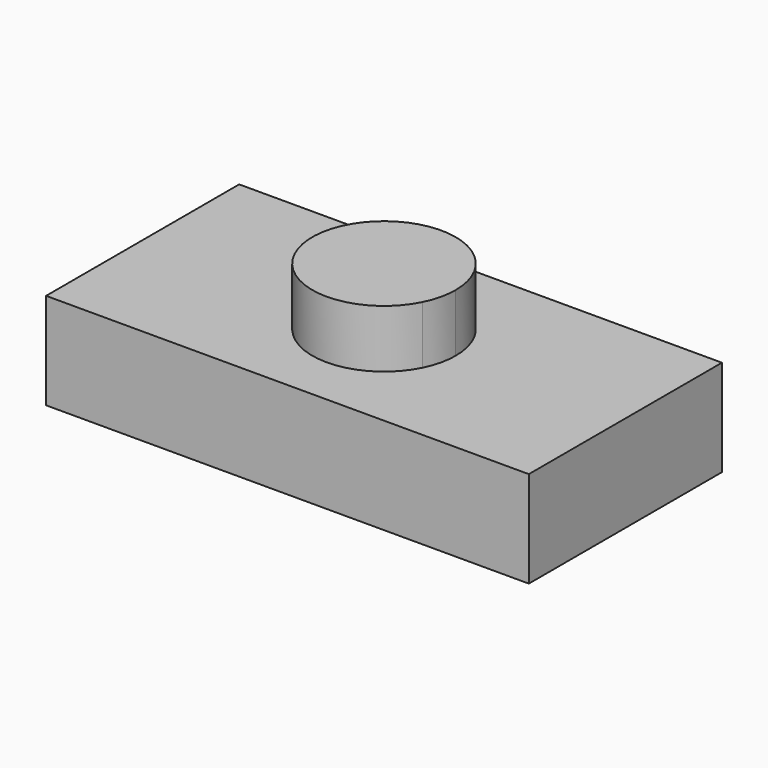
from build123d import *

# Parameters (mm, degrees)
F1_DEPTH = 3.175
F2_DEPTH = 5.08


with BuildPart() as f1:
    # F0 (on Top) → F1 (new body)
    with BuildSketch(Plane.XY):
        with BuildLine():
            Line((6.8534065496, 13.273686968), (-9.0469934504, 13.273686968))
            Line((-9.0469934504, 13.273686968), (-3.2091541804, 10.354767333))
            ThreePointArc((-3.2091541804, 10.354767333), (-0.5541880245, 11.5971004374), (1.2648976422, 9.298586968))
            ThreePointArc((1.2648976422, 9.298586968), (1.2017200189, 8.7559815421), (1.0155672796, 8.2424066031))
            Line((1.0155672796, 8.2424066031), (6.8534065496, 5.323486968))
            Line((6.8534065496, 5.323486968), (6.8534065496, 13.273686968))
        make_face()
        with BuildLine():
            Line((-3.2091541804, 10.354767333), (-9.0469934504, 13.273686968))
            Line((-9.0469934504, 13.273686968), (-9.0469934504, 5.323486968))
            Line((-9.0469934504, 5.323486968), (6.8534065496, 5.323486968))
            Line((6.8534065496, 5.323486968), (1.0155672796, 8.2424066031))
            ThreePointArc((1.0155672796, 8.2424066031), (-2.1529738154, 7.1862262381), (-3.2091541804, 10.354767333))
        make_face()
        with BuildLine():
            ThreePointArc((1.2648976422, 9.298586968), (-0.5541880245, 11.5971004374), (-3.2091541804, 10.354767333))
            Line((-3.2091541804, 10.354767333), (1.0155672796, 8.2424066031))
            ThreePointArc((1.0155672796, 8.2424066031), (1.2017200189, 8.7559815421), (1.2648976422, 9.298586968))
        make_face()
        with BuildLine():
            Line((1.0155672796, 8.2424066031), (-3.2091541804, 10.354767333))
            ThreePointArc((-3.2091541804, 10.354767333), (-2.1529738154, 7.1862262381), (1.0155672796, 8.2424066031))
        make_face()
    extrude(amount=F1_DEPTH)

    # F0 (on Top) → F2 (join)
    with BuildSketch(Plane.XY):
        with BuildLine():
            ThreePointArc((1.2648976422, 9.298586968), (-0.5541880245, 11.5971004374), (-3.2091541804, 10.354767333))
            Line((-3.2091541804, 10.354767333), (1.0155672796, 8.2424066031))
            ThreePointArc((1.0155672796, 8.2424066031), (1.2017200189, 8.7559815421), (1.2648976422, 9.298586968))
        make_face()
        with BuildLine():
            Line((1.0155672796, 8.2424066031), (-3.2091541804, 10.354767333))
            ThreePointArc((-3.2091541804, 10.354767333), (-2.1529738154, 7.1862262381), (1.0155672796, 8.2424066031))
        make_face()
    extrude(amount=F2_DEPTH)


solid = f1.part
